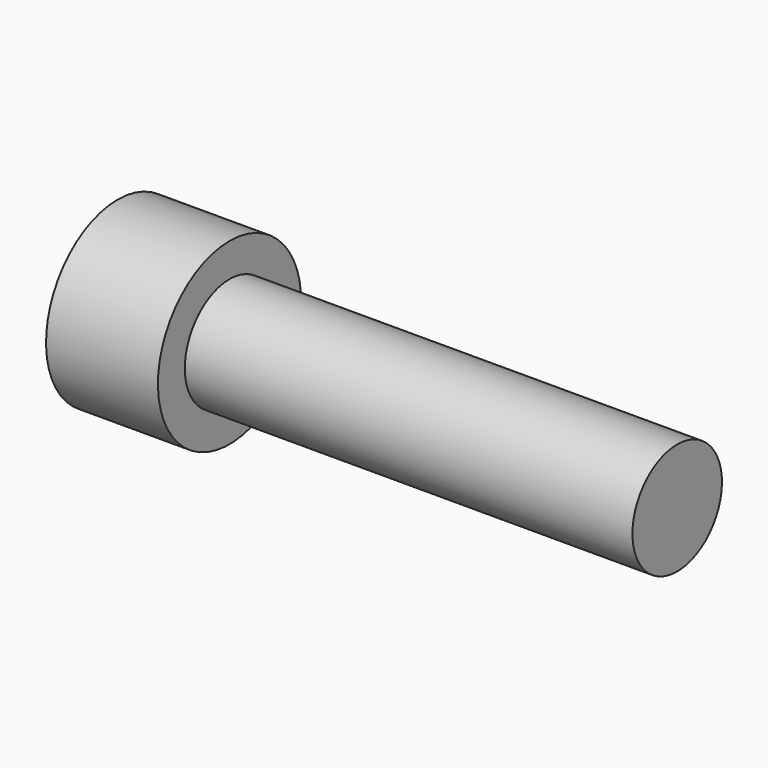
from build123d import *

# Parameters (mm, degrees)
F0_W     = 40
F0_H     = 5
F3_DEPTH = 5


with BuildPart() as f1:
    # F0 (on Front) → F1 (revolve)
    with BuildSketch(Plane.XZ):
        Polygon((0, 0), (0, 5), (0, 8), (-10, 8), (-10, 0), align=None)
        with Locations((20, 2.5)):
            Rectangle(F0_W, F0_H)
    revolve(axis=Axis((20, 0, 0), (1, 0, 0)))

    # F2 (on face) → F3 (cut)
    with BuildSketch(Plane(origin=(-10, 0, 0), x_dir=(0, -1, 0), z_dir=(-1, 0, 0))):
        Polygon((0, -4.618802), (4, -2.309401), (4, 2.309401), (0, 4.618802), (-4, 2.309401), (-4, -2.309401), align=None)
    extrude(amount=-F3_DEPTH, mode=Mode.SUBTRACT)


solid = f1.part
